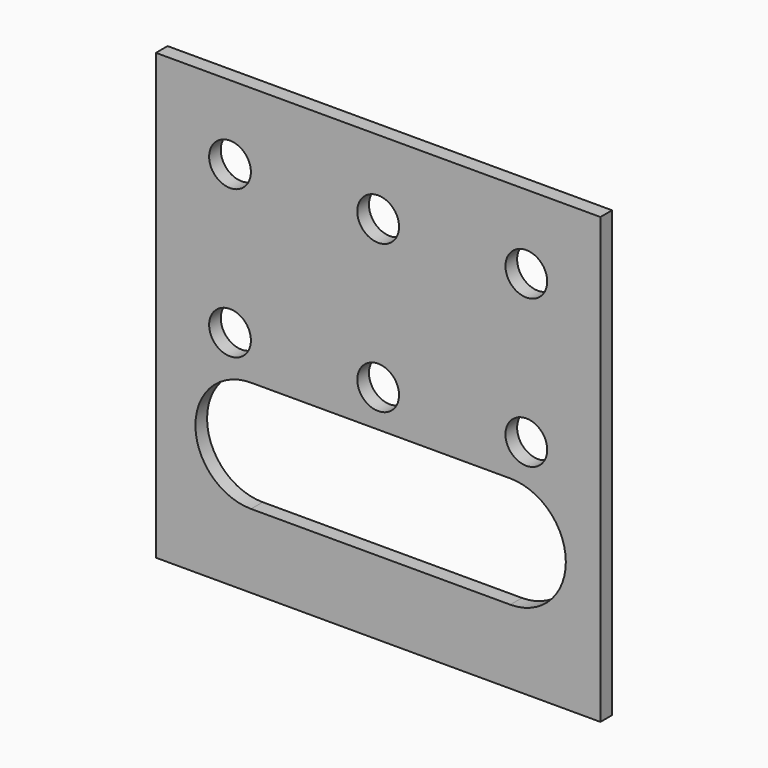
from build123d import *

# Parameters (mm, degrees)
SKETCH_W  = 304.8
SKETCH_H  = 304.8
SKETCH_R  = 14.318315
PAD_DEPTH = 10.000005


with BuildPart() as part:
    # Sketch → Pad (new body)
    with BuildSketch(Plane.XZ):
        Rectangle(SKETCH_W, SKETCH_H)
        with Locations((101.6, 101.6)):
            Circle(SKETCH_R, mode=Mode.SUBTRACT)
        with Locations((-101.6, 0)):
            Circle(SKETCH_R, mode=Mode.SUBTRACT)
        with Locations((101.6, 0)):
            Circle(SKETCH_R, mode=Mode.SUBTRACT)
        with Locations((0, 101.6)):
            Circle(SKETCH_R, mode=Mode.SUBTRACT)
        Circle(SKETCH_R, mode=Mode.SUBTRACT)
        with Locations((-101.6, 101.6)):
            Circle(SKETCH_R, mode=Mode.SUBTRACT)
        with BuildLine():
            ThreePointArc((-87.219092, -25.517974), (-125.319092, -63.617974), (-87.219092, -101.717974))
            Line((-87.219092, -101.717974), (90.580859, -101.717974))
            ThreePointArc((90.580859, -101.717974), (128.680859, -63.617974), (90.580859, -25.517974))
            Line((-87.219092, -25.517974), (90.580859, -25.517974))
        make_face(mode=Mode.SUBTRACT)
    extrude(amount=PAD_DEPTH)


solid = part.part
